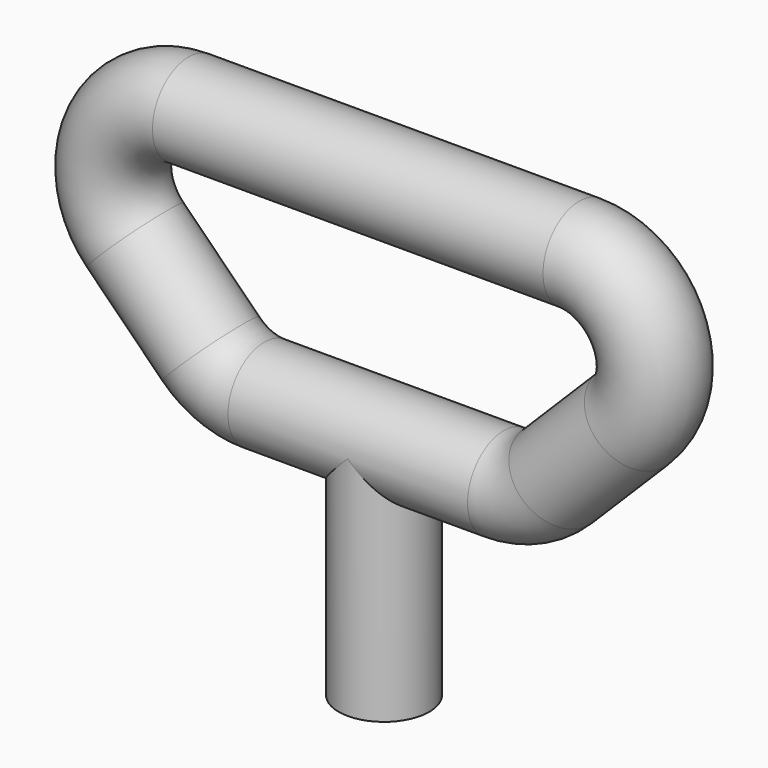
from build123d import *

# Parameters (mm, degrees)
F3_R = 12


with BuildPart() as f1:
    # F0 (on Front) → F1 (revolve)
    with BuildSketch(Plane.XZ):
        Polygon((-12, 0), (-10, 0), (-10, 50), (0, 50), (0, 60), (-12, 60), align=None)
    revolve(axis=Axis((0, 0, 25), (0, 0, -1)))

    # F4: sweep along a path in F2
    with BuildLine(Plane.XZ) as f4_path:
        Line((0, 60), (-31.715729, 60))
        ThreePointArc((-31.715729, 60), (-39.369397, 61.522409), (-45.857864, 65.857864))
        Line((-45.857864, 65.857864), (-65.857864, 85.857864))
        ThreePointArc((-65.857864, 85.857864), (-70.193319, 107.653669), (-51.715729, 120))
        Line((-51.715729, 120), (51.715729, 120))
        ThreePointArc((51.715729, 120), (70.193319, 107.653669), (65.857864, 85.857864))
        Line((65.857864, 85.857864), (45.857864, 65.857864))
        ThreePointArc((45.857864, 65.857864), (39.369397, 61.522409), (31.715729, 60))
        Line((31.715729, 60), (0, 60))
    # F3 (on Right) → F4 (sweep)
    with BuildSketch(Plane.YZ):
        with Locations((0, 60)):
            Circle(F3_R)
    sweep(path=f4_path.line)


solid = f1.part
